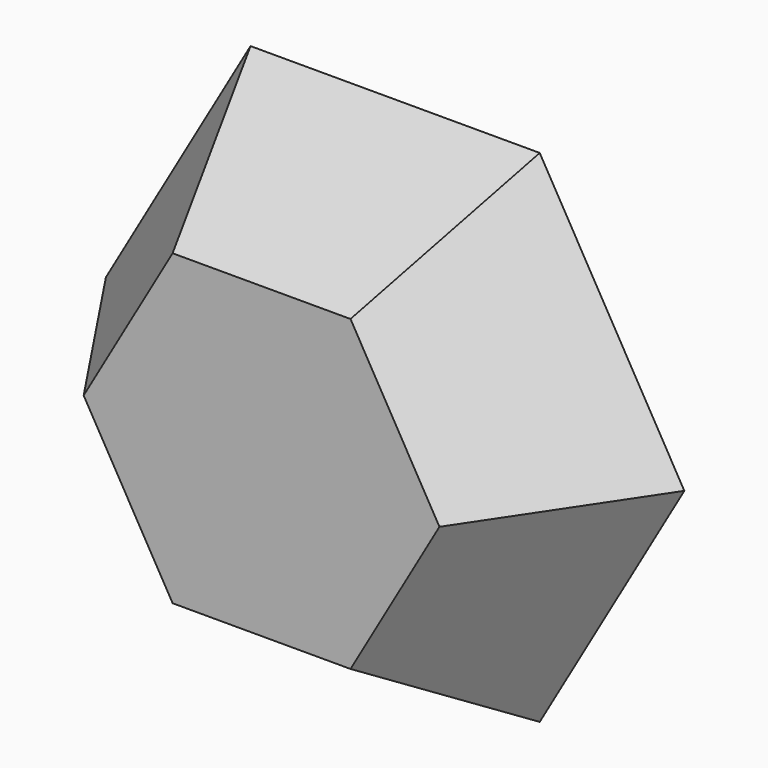
from build123d import *

# Parameters (mm, degrees)
F1_DEPTH = 20
F1_TAPER = 30


with BuildPart() as f1:
    # F0 (on Front) → F1 (new body)
    with BuildSketch(Plane.XZ):
        Polygon((17.3205080757, 30), (-17.3205080757, 30), (-34.6410161514, 0), (-17.3205080757, -30), (17.3205080757, -30), (34.6410161514, 0), align=None)
    extrude(amount=F1_DEPTH, taper=F1_TAPER)


solid = f1.part
